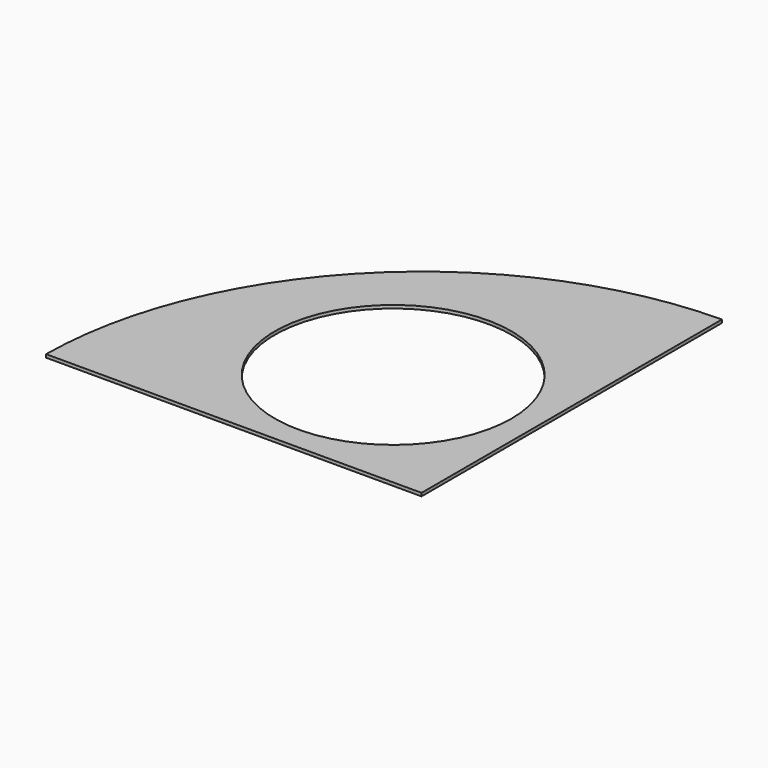
from build123d import *

# Parameters (mm, degrees)
F0_R     = 37.5
F1_DEPTH = 1


with BuildPart() as f1:
    # F0 (on Top) → F1 (new body)
    with BuildSketch(Plane.XY):
        with BuildLine():
            Line((-1, 1), (-1, 119.995833))
            ThreePointArc((-1, 119.995833), (-84.852814, 84.852814), (-119.995833, 1))
            Line((-119.995833, 1), (-1, 1))
        make_face()
        with Locations((-45.961941, 45.961941)):
            Circle(F0_R, mode=Mode.SUBTRACT)
    extrude(amount=F1_DEPTH)


solid = f1.part
